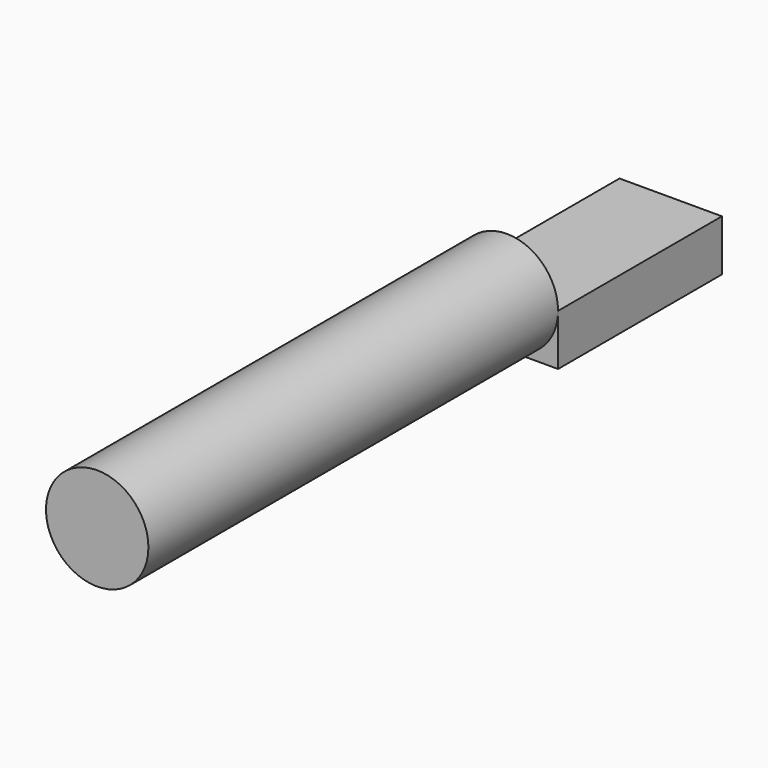
from build123d import *

# Parameters (mm, degrees)
F0_R     = 3.175
F1_DEPTH = 31.75
F2_W     = 6.35
F2_H     = 12.7
F3_DEPTH = 3.175


with BuildPart() as f1:
    # F0 (on Front) → F1 (new body)
    with BuildSketch(Plane.XZ):
        Circle(F0_R)
    extrude(amount=F1_DEPTH)

    # F2 (on Top) → F3 (join)
    with BuildSketch(Plane.XY):
        with Locations((0, 6.35)):
            Rectangle(F2_W, F2_H)
    extrude(amount=-F3_DEPTH)


solid = f1.part
